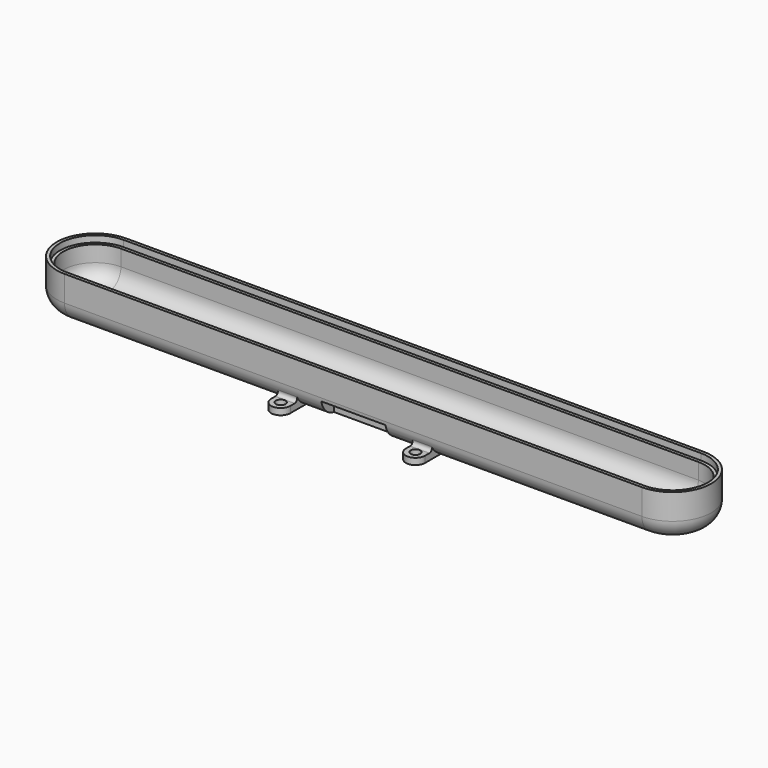
from build123d import *

# Parameters (mm, degrees)
PAD_DEPTH       = 14
POCKET_DEPTH    = 12
FILLET_R        = 5
FILLET001_R     = 6
SKETCH002_R     = 1.5
PAD001_DEPTH    = 2
FILLET002_R     = 1
SKETCH003_R     = 5
POCKET001_DEPTH = 2.001
POCKET002_DEPTH = 2
SKETCH005_W     = 20
SKETCH005_H     = 5
POCKET003_DEPTH = 5


with BuildPart() as part:
    # Sketch → Pad (new body)
    with BuildSketch(Plane.XY):
        with BuildLine():
            Line((-90, 12), (89.999963, 12))
            ThreePointArc((90, -12), (102, 1.9e-05), (89.999963, 12))
            Line((-90, -12), (90, -12))
            ThreePointArc((-90, 12), (-102, 0), (-90, -12))
        make_face()
    extrude(amount=PAD_DEPTH)

    # Sketch001 (on Face6 of Pad) → Pocket (cut)
    with BuildSketch(Plane.XY.offset(14)):
        with BuildLine():
            Line((-90, 10), (89.999996, 10))
            ThreePointArc((90, -10), (100, 2e-06), (89.999996, 10))
            Line((-90, -10), (90, -10))
            ThreePointArc((-90, 10), (-100, 0), (-90, -10))
        make_face()
    extrude(amount=-POCKET_DEPTH, mode=Mode.SUBTRACT)

    # Fillet
    fillet_edges = [part.edges().sort_by_distance(p)[0] for p in [
        (-2e-06, 10, 2),
    ]]
    fillet(fillet_edges, radius=FILLET_R)

    # Fillet001
    fillet001_edges = [part.edges().sort_by_distance(p)[0] for p in [
        (0, -12, 0),
    ]]
    fillet(fillet001_edges, radius=FILLET001_R)

    # Sketch002 (on Face9 of Fillet001) → Pad001 (join)
    with BuildSketch(Plane(origin=(0, 0, 0), x_dir=(1, 0, 0), z_dir=(0, 0, -1))):
        with BuildLine():
            Line((-24, 14), (-24, 0))
            Line((-24, 0), (24, 0))
            Line((24, 0), (24, 14))
            ThreePointArc((24, 14), (21, 17), (18, 14))
            Line((18, 14), (18, 5.336054))
            Line((18, 5.336054), (-18, 5.336054))
            Line((-18, 5.336054), (-18, 14))
            ThreePointArc((-18, 14), (-21, 17), (-24, 14))
        make_face()
        with Locations((21, 14)):
            Circle(SKETCH002_R, mode=Mode.SUBTRACT)
        with Locations((-21, 14)):
            Circle(SKETCH002_R, mode=Mode.SUBTRACT)
    extrude(amount=-PAD001_DEPTH)

    # Fillet002
    fillet002_edges = [part.edges().sort_by_distance(p)[0] for p in [
        (21, -10.472136, 2),
        (-21, -10.472136, 2),
    ]]
    fillet(fillet002_edges, radius=FILLET002_R)

    # Sketch003 (on Face35 of Fillet002) → Pocket001 (cut, through all)
    with BuildSketch(Plane.XY.offset(2)):
        with Locations((-72, 0)):
            Circle(SKETCH003_R)
        with Locations((-56, 0)):
            Circle(SKETCH003_R)
        with Locations((-40, 0)):
            Circle(SKETCH003_R)
        with Locations((-24, 0)):
            Circle(SKETCH003_R)
        with Locations((-8, 0)):
            Circle(SKETCH003_R)
        with Locations((8, 0)):
            Circle(SKETCH003_R)
        with Locations((24, 0)):
            Circle(SKETCH003_R)
        with Locations((40, 0)):
            Circle(SKETCH003_R)
        with Locations((56, 0)):
            Circle(SKETCH003_R)
        with Locations((72, 0)):
            Circle(SKETCH003_R)
    extrude(amount=-POCKET001_DEPTH, mode=Mode.SUBTRACT)

    # Sketch004 (on Face33 of Pocket001) → Pocket002 (cut)
    with BuildSketch(Plane.XY.offset(14)):
        with BuildLine():
            Line((-90, 11), (90.000004, 11))
            ThreePointArc((90, -11), (101, -2e-06), (90.000004, 11))
            Line((-90, -11), (90, -11))
            ThreePointArc((-90, 11), (-101, 0), (-90, -11))
        make_face()
    extrude(amount=-POCKET002_DEPTH, mode=Mode.SUBTRACT)

    # Sketch005 (on Face11 of Pocket002) → Pocket003 (cut)
    with BuildSketch(Plane.XZ.offset(12)):
        with Locations((0, 2.5)):
            Rectangle(SKETCH005_W, SKETCH005_H)
    extrude(amount=-POCKET003_DEPTH, mode=Mode.SUBTRACT)


solid = part.part
